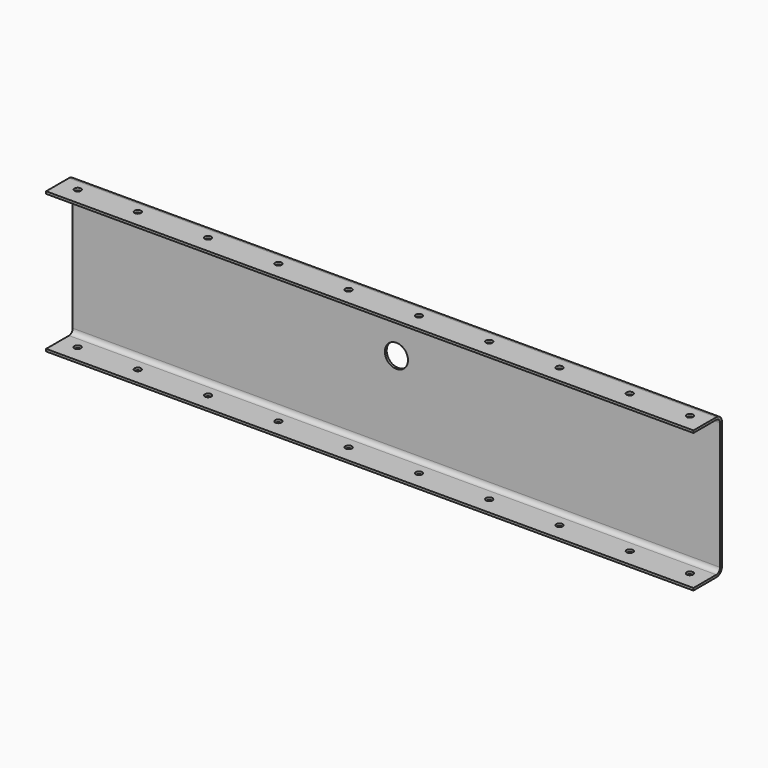
from build123d import *

# Parameters (mm, degrees)
F1_DEPTH = 1400
F2_R     = 25
F3_DEPTH = 5
F4_R     = 7
F5_DEPTH = 305.001
F6_DEPTH = 305.001


with BuildPart() as f1:
    # F0 (on Right) → F1 (new body)
    with BuildSketch(Plane.YZ):
        with BuildLine():
            Line((0, 5), (0, 0))
            Line((0, 0), (62, 0))
            ThreePointArc((62, 0), (72.606602, 4.393398), (77, 15))
            Line((77, 15), (77, 290))
            ThreePointArc((77, 290), (72.606602, 300.606602), (62, 305))
            Line((62, 305), (0, 305))
            Line((0, 305), (0, 300))
            Line((0, 300), (62, 300))
            ThreePointArc((62, 300), (69.071068, 297.071068), (72, 290))
            Line((72, 290), (72, 15))
            ThreePointArc((72, 15), (69.071068, 7.928932), (62, 5))
            Line((62, 5), (0, 5))
        make_face()
    extrude(amount=F1_DEPTH)

    # F2 (on face) → F3 (cut, through all)
    with BuildSketch(Plane(origin=(0, 77, 0), x_dir=(-1, 0, 0), z_dir=(0, 1, 0))):
        with Locations((-700, 190)):
            Circle(F2_R)
    extrude(amount=-F3_DEPTH, mode=Mode.SUBTRACT)

    # F4 (on face) → F5 (cut, through all)
    with BuildSketch(Plane.XY.offset(305)):
        with BuildLine():
            ThreePointArc((783, 38), (771.050253, 42.949747), (776, 31))
            ThreePointArc((776, 31), (780.949747, 33.050253), (783, 38))
        make_face()
        with Locations((928, 38)):
            Circle(F4_R)
        with Locations((1080, 38)):
            Circle(F4_R)
        with Locations((1232, 38)):
            Circle(F4_R)
        with Locations((1362, 38)):
            Circle(F4_R)
    extrude(amount=-F5_DEPTH, mode=Mode.SUBTRACT)

    # F4 (on face) → F6 (cut, through all)
    with BuildSketch(Plane.XY.offset(305)):
        with BuildLine():
            ThreePointArc((776, 31), (780.949747, 33.050253), (783, 38))
            ThreePointArc((783, 38), (771.050253, 42.949747), (776, 31))
        make_face()
        with Locations((928, 38)):
            Circle(F4_R)
        with Locations((1080, 38)):
            Circle(F4_R)
        with Locations((1232, 38)):
            Circle(F4_R)
        with Locations((1362, 38)):
            Circle(F4_R)
        with Locations((624, 38)):
            Circle(F4_R)
        with Locations((472, 38)):
            Circle(F4_R)
        with Locations((320, 38)):
            Circle(F4_R)
        with Locations((168, 38)):
            Circle(F4_R)
        with Locations((38, 38)):
            Circle(F4_R)
    extrude(amount=-F6_DEPTH, mode=Mode.SUBTRACT)


solid = f1.part
